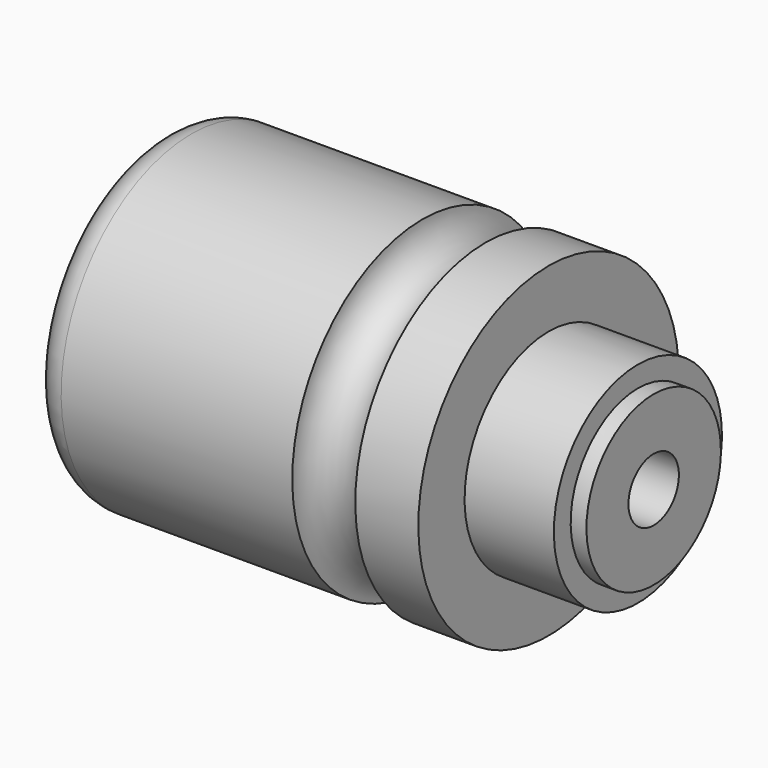
from build123d import *

# Parameters (mm, degrees)
F0_W = 3
F0_H = 10


with BuildPart() as f1:
    # F0 (on Front) → F1 (revolve)
    with BuildSketch(Plane.XZ):
        with BuildLine():
            ThreePointArc((6, 31), (1.757359, 29.242641), (0, 25))
            Line((0, 25), (1.5, 25))
            Line((1.5, 25), (1.5, 16))
            Line((1.5, 16), (13.5, 16))
            Line((13.5, 16), (13.5, 10.340799))
            Line((13.5, 10.340799), (16.5, 10.340799))
            Line((16.5, 10.340799), (16.5, 20.5))
            Line((16.5, 20.5), (23.5, 20.5))
            Line((23.5, 20.5), (23.5, 16))
            Line((23.5, 16), (31.5, 16))
            Line((31.5, 16), (31.5, 6))
            Line((31.5, 6), (50, 6))
            Line((50, 6), (50, 31))
            Line((50, 31), (6, 31))
        make_face()
        with BuildLine():
            ThreePointArc((62, 31), (56, 25), (50, 31))
            Line((50, 31), (50, 6))
            Line((50, 6), (62, 6))
            Line((62, 6), (62, 31))
        make_face()
        Polygon((74, 31), (62, 31), (62, 6), (74, 6), (74, 20), align=None)
        Polygon((91, 20), (74, 20), (74, 6), (91, 6), (91, 16), align=None)
        with Locations((92.5, 11)):
            Rectangle(F0_W, F0_H)
    revolve(axis=Axis((119.517388, 0, 0), (1, 0, 0)))


solid = f1.part
